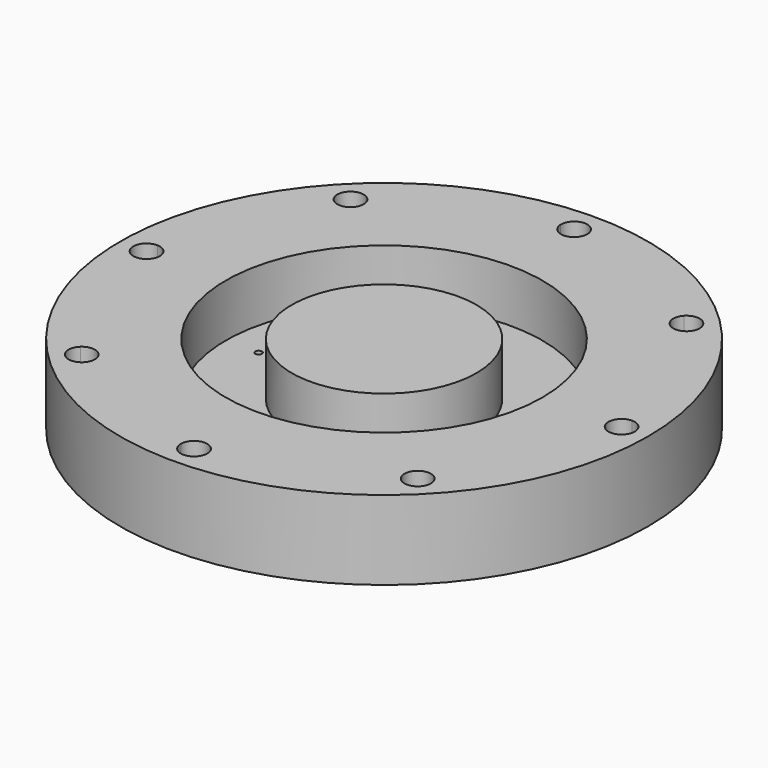
from build123d import *

# Parameters (mm, degrees)
F0_R     = 63.5
F1_DEPTH = 19.05
F2_R     = 38.1
F2_R_2   = 22.225
F3_DEPTH = 12.7
F5_DEPTH = 25.4
F7_DEPTH = 25.4


with BuildPart() as f1:
    # F0 (on Top) → F1 (new body)
    with BuildSketch(Plane.XY):
        Circle(F0_R)
    extrude(amount=F1_DEPTH)

    # F2 (on face) → F3 (cut)
    with BuildSketch(Plane.XY.offset(19.05)):
        Circle(F2_R)
        Circle(F2_R_2, mode=Mode.SUBTRACT)
    extrude(amount=-F3_DEPTH, mode=Mode.SUBTRACT)

    # F4 (on face) → F5 (cut)
    with BuildSketch(Plane.XY.offset(19.05)):
        with BuildLine():
            ThreePointArc((-53.975, 0), (-54.873968, 2.213663), (-57.061806, 3.173775))
            ThreePointArc((-57.061806, 3.173775), (-60.325, 0), (-57.061806, -3.173775))
            ThreePointArc((-57.061806, -3.173775), (-54.873968, -2.213663), (-53.975, 0))
        make_face()
        with BuildLine():
            ThreePointArc((-38.104592, 42.592987), (-42.656217, 42.656217), (-42.592987, 38.104592))
            ThreePointArc((-42.592987, 38.104592), (-39.155505, 37.494995), (-37.236153, 40.411153))
            ThreePointArc((-37.236153, 40.411153), (-37.461241, 41.585311), (-38.104592, 42.592987))
        make_face()
        with BuildLine():
            ThreePointArc((3.175, 57.15), (-0.044101, 60.324694), (-3.173775, 57.061806))
            ThreePointArc((-3.173775, 57.061806), (0, 53.975), (3.173775, 57.061806))
            ThreePointArc((3.173775, 57.061806), (3.174694, 57.105899), (3.175, 57.15))
        make_face()
        with BuildLine():
            ThreePointArc((43.586153, 40.411153), (41.585311, 43.361064), (38.104592, 42.592987))
            ThreePointArc((38.104592, 42.592987), (38.166089, 38.166089), (42.592987, 38.104592))
            ThreePointArc((42.592987, 38.104592), (43.32731, 39.155505), (43.586153, 40.411153))
        make_face()
        with BuildLine():
            ThreePointArc((60.325, 0), (59.363663, 2.276032), (57.061806, 3.173775))
            ThreePointArc((57.061806, 3.173775), (53.975, 0), (57.061806, -3.173775))
            ThreePointArc((57.061806, -3.173775), (59.363663, -2.276032), (60.325, 0))
        make_face()
        with BuildLine():
            ThreePointArc((42.592987, -38.104592), (38.166089, -38.166089), (38.104592, -42.592987))
            ThreePointArc((38.104592, -42.592987), (41.585311, -43.361064), (43.586153, -40.411153))
            ThreePointArc((43.586153, -40.411153), (43.32731, -39.155505), (42.592987, -38.104592))
        make_face()
        with BuildLine():
            ThreePointArc((3.173775, -57.061806), (0, -53.975), (-3.173775, -57.061806))
            ThreePointArc((-3.173775, -57.061806), (-0.044101, -60.324694), (3.175, -57.15))
            ThreePointArc((3.175, -57.15), (3.174694, -57.105899), (3.173775, -57.061806))
        make_face()
        with BuildLine():
            ThreePointArc((-37.236153, -40.411153), (-39.155505, -37.494995), (-42.592987, -38.104592))
            ThreePointArc((-42.592987, -38.104592), (-42.656217, -42.656217), (-38.104592, -42.592987))
            ThreePointArc((-38.104592, -42.592987), (-37.461241, -41.585311), (-37.236153, -40.411153))
        make_face()
    extrude(amount=-F5_DEPTH, mode=Mode.SUBTRACT)

    # F6 (on face) → F7 (cut)
    with BuildSketch(Plane.XY.offset(6.35)):
        with BuildLine():
            ThreePointArc((-29.36875, 0), (-29.597554, 0.557561), (-30.152056, 0.793681))
            ThreePointArc((-30.152056, 0.793681), (-30.95625, 0), (-30.152056, -0.793681))
            ThreePointArc((-30.152056, -0.793681), (-29.597554, -0.557561), (-29.36875, 0))
        make_face()
        with BuildLine():
            ThreePointArc((0.793681, -30.152056), (0, -29.36875), (-0.793681, -30.152056))
            ThreePointArc((-0.793681, -30.152056), (-0.005222, -30.956233), (0.79375, -30.1625))
            ThreePointArc((0.79375, -30.1625), (0.793733, -30.157278), (0.793681, -30.152056))
        make_face()
        with BuildLine():
            ThreePointArc((30.95625, 0), (30.720061, 0.564946), (30.152056, 0.793681))
            ThreePointArc((30.152056, 0.793681), (29.36875, 0), (30.152056, -0.793681))
            ThreePointArc((30.152056, -0.793681), (30.720061, -0.564946), (30.95625, 0))
        make_face()
        with BuildLine():
            ThreePointArc((0.79375, 30.1625), (-0.005222, 30.956233), (-0.793681, 30.152056))
            ThreePointArc((-0.793681, 30.152056), (0, 29.36875), (0.793681, 30.152056))
            ThreePointArc((0.793681, 30.152056), (0.793733, 30.157278), (0.79375, 30.1625))
        make_face()
    extrude(amount=-F7_DEPTH, mode=Mode.SUBTRACT)


solid = f1.part
